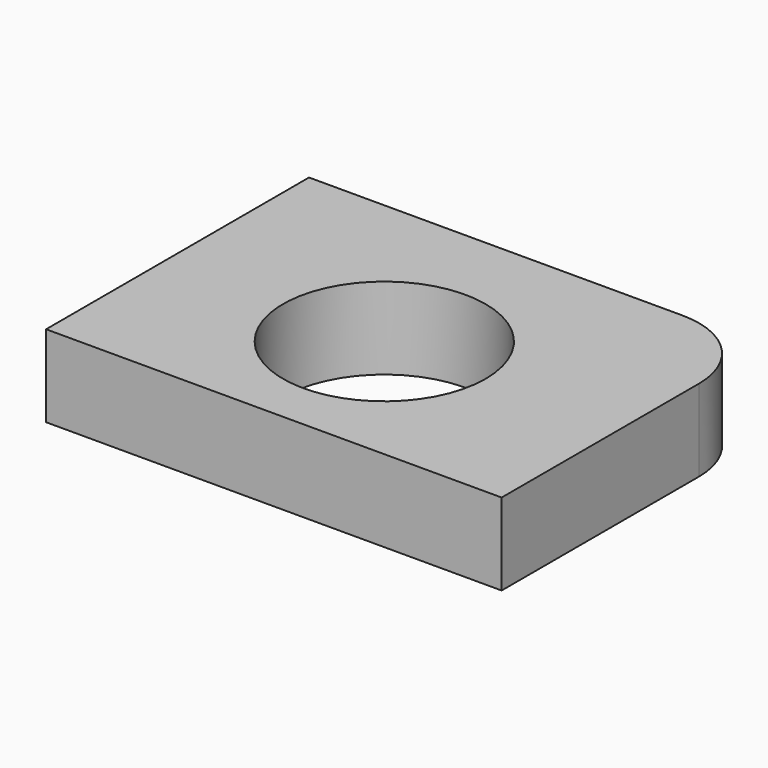
from build123d import *

# Parameters (mm, degrees)
F0_R     = 12.37214
F1_DEPTH = 10


with BuildPart() as f1:
    # F0 (on Top) → F1 (new body)
    with BuildSketch(Plane.XY):
        with BuildLine():
            Line((0, 40.147543), (0, 0))
            Line((0, 0), (55.64775, 0))
            Line((55.64775, 0), (55.64775, 30.147543))
            ThreePointArc((55.64775, 30.147543), (52.718818, 37.218611), (45.64775, 40.147543))
            Line((45.64775, 40.147543), (0, 40.147543))
        make_face()
        with Locations((26.765032, 18.186493)):
            Circle(F0_R, mode=Mode.SUBTRACT)
    extrude(amount=F1_DEPTH)


solid = f1.part
